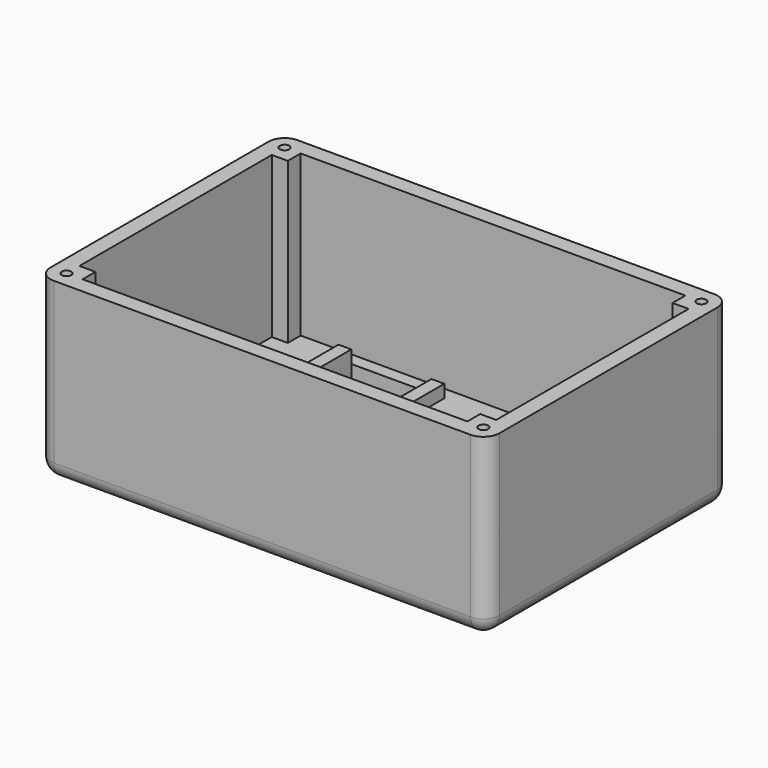
from build123d import *

# Parameters (mm, degrees)
F0_W     = 25
F0_H     = 77
F1_DEPTH = 5
F2_R     = 1.5
F3_DEPTH = 50
F4_R     = 5
F5_W     = 4
F5_H     = 77
F6_DEPTH = 4


with BuildPart() as f1:
    # F0 (on Top) → F1 (new body)
    with BuildSketch(Plane.XY):
        with BuildLine():
            ThreePointArc((0, 5), (1.4644660941, 1.4644660941), (5, 0))
            Line((5, 0), (135, 0))
            ThreePointArc((135, 0), (138.5355339059, 1.4644660941), (140, 5))
            Line((140, 5), (140, 90))
            ThreePointArc((140, 90), (138.5355339059, 93.5355339059), (135, 95))
            Line((135, 95), (5, 95))
            ThreePointArc((5, 95), (1.4644660941, 93.5355339059), (0, 90))
            Line((0, 90), (0, 5))
        make_face()
        with Locations((41.5, 47.5)):
            Rectangle(F0_W, F0_H, mode=Mode.SUBTRACT)
    extrude(amount=F1_DEPTH)

    # F2 (on face) → F3 (join)
    with BuildSketch(Plane.XY.offset(5)):
        with BuildLine():
            ThreePointArc((0, 5), (1.4644660941, 1.4644660941), (5, 0))
            Line((5, 0), (135, 0))
            ThreePointArc((135, 0), (138.5355339059, 1.4644660941), (140, 5))
            Line((140, 5), (140, 90))
            ThreePointArc((140, 90), (138.5355339059, 93.5355339059), (135, 95))
            Line((135, 95), (5, 95))
            ThreePointArc((5, 95), (1.4644660941, 93.5355339059), (0, 90))
            Line((0, 90), (0, 5))
        make_face()
        with Locations((5, 5)):
            Circle(F2_R, mode=Mode.SUBTRACT)
        with Locations((135, 5)):
            Circle(F2_R, mode=Mode.SUBTRACT)
        with Locations((5, 90)):
            Circle(F2_R, mode=Mode.SUBTRACT)
        Polygon((10, 9.9999997765), (5, 9.9999997765), (5, 85), (10, 85), (10, 90), (130, 90), (130, 85), (135, 85), (135, 9.9999997765), (130, 9.9999997765), (130, 5), (10, 5), align=None, mode=Mode.SUBTRACT)
        with Locations((135, 90)):
            Circle(F2_R, mode=Mode.SUBTRACT)
    extrude(amount=F3_DEPTH)

    # F4
    f4_edges = [f1.edges().sort_by_distance(p)[0] for p in [
        (70, 95, 0),
    ]]
    fillet(f4_edges, radius=F4_R)

    # F5 (on face) → F6 (join)
    with BuildSketch(Plane.XY.offset(5)):
        with Locations((27, 47.5)):
            Rectangle(F5_W, F5_H)
        with Locations((56, 47.5)):
            Rectangle(F5_W, F5_H)
    extrude(amount=F6_DEPTH)


solid = f1.part
